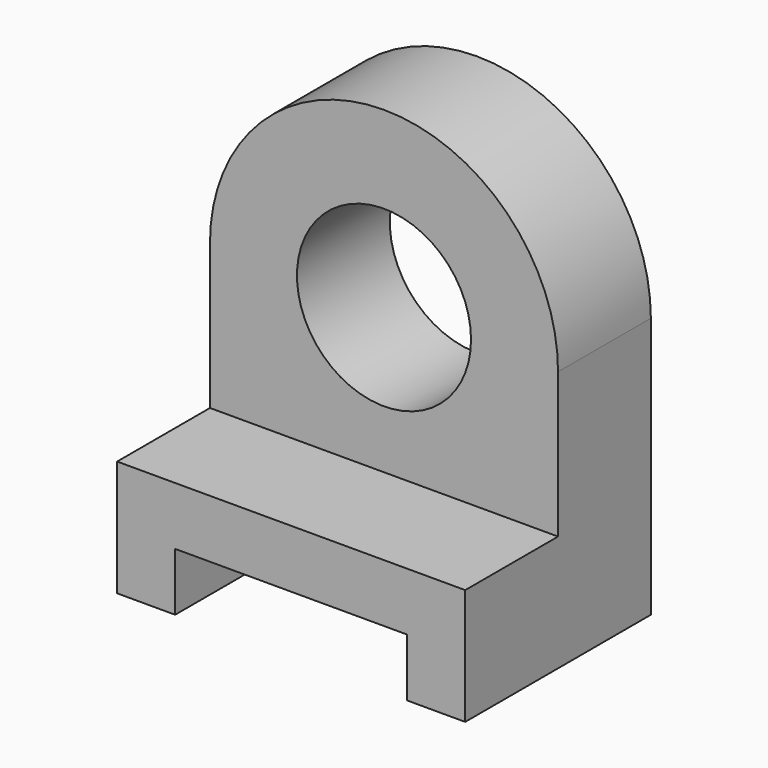
from build123d import *

# Parameters (mm, degrees)
F1_DEPTH = 40
F0_R     = 15
F2_DEPTH = 20


with BuildPart() as f1:
    # F0 (on Front) → F1 (new body)
    with BuildSketch(Plane.XZ):
        Polygon((0, 20), (0, 0), (10, 0), (10, 10), (50, 10), (50, 0), (60, 0), (60, 20), align=None)
    extrude(amount=F1_DEPTH)

    # F0 (on Front) → F2 (join)
    with BuildSketch(Plane.XZ):
        with BuildLine():
            Line((0, 45), (0, 20))
            Line((0, 20), (60, 20))
            Line((60, 20), (60, 45))
            ThreePointArc((60, 45), (30, 75), (0, 45))
        make_face()
        with Locations((30, 45)):
            Circle(F0_R, mode=Mode.SUBTRACT)
    extrude(amount=F2_DEPTH)


solid = f1.part
